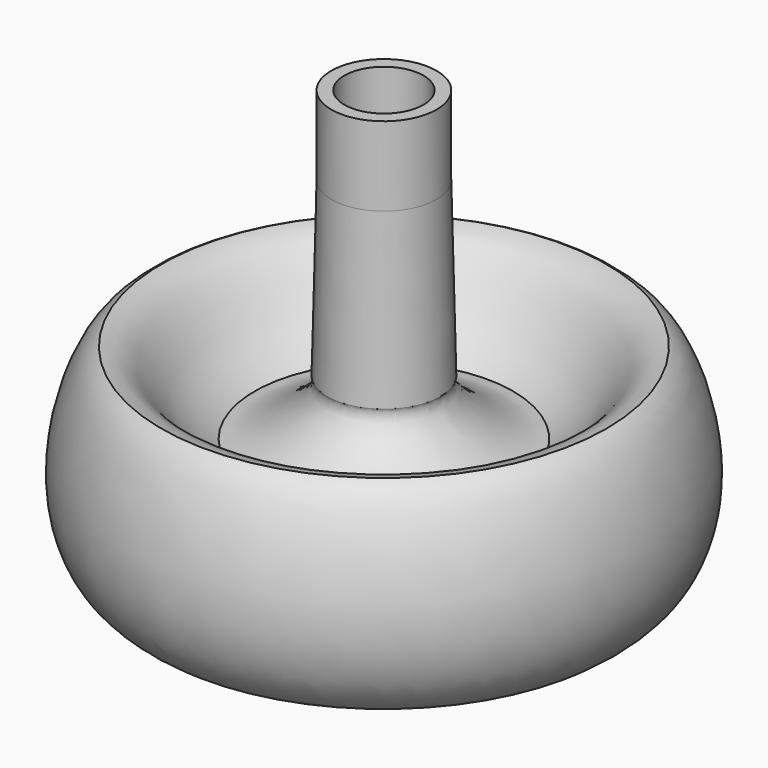
from build123d import *


with BuildPart() as f1:
    # F0 (on Front) → F1 (revolve)
    with BuildSketch(Plane.XZ):
        with BuildLine():
            Line((0, 53.975), (0, 22.225))
            Line((0, 22.225), (1.5875, 22.225))
            Line((1.5875, 22.225), (1.5875, 0))
            Line((1.5875, 0), (5.698481, 1.562173))
            Line((5.698481, 1.562173), (5.698481, 6.277371))
            add(Edge.make_bspline(
                [(5.698481, 6.277371), (8.02727, 12.973835), (7.018498, 16.228786), (18.37635, 19.061528)],
                knots=[0, 0, 0, 0, 18.004529, 18.004529, 18.004529, 18.004529], degree=3))
            add(Edge.make_bspline(
                [(18.37635, 19.061528), (22.37685, 18.172529), (23.965869, 13.404224), (26.781127, 11.890375)],
                knots=[0, 0, 0, 0, 11.048335, 11.048335, 11.048335, 11.048335], degree=3))
            add(Edge.make_bspline(
                [(26.781127, 11.890375), (35.613064, 17.614715), (30.790534, 34.767092), (26.781127, 36.36239)],
                knots=[0, 0, 0, 0, 24.472015, 24.472015, 24.472015, 24.472015], degree=3))
            add(Edge.make_bspline(
                [(15.535427, 26.569685), (22.434812, 30.628148), (21.891626, 35.671126), (26.781127, 36.36239)],
                knots=[0, 0, 0, 0, 14.911835, 14.911835, 14.911835, 14.911835], degree=3))
            add(Edge.make_bspline(
                [(15.535427, 26.569685), (11.979427, 26.347438), (5.698481, 31.2659), (6.809731, 33.266149)],
                knots=[0, 0, 0, 0, 10.999109, 10.999109, 10.999109, 10.999109], degree=3))
            Line((6.809731, 33.266149), (6.334125, 53.975))
            Line((6.334125, 53.975), (6.334125, 63.5))
            Line((6.334125, 63.5), (4.7625, 63.5))
            Line((4.7625, 63.5), (4.7625, 53.975))
            Line((4.7625, 53.975), (0, 53.975))
        make_face()
    revolve(axis=Axis((0, 0, 26.9875), (0, 0, -1)))


solid = f1.part
